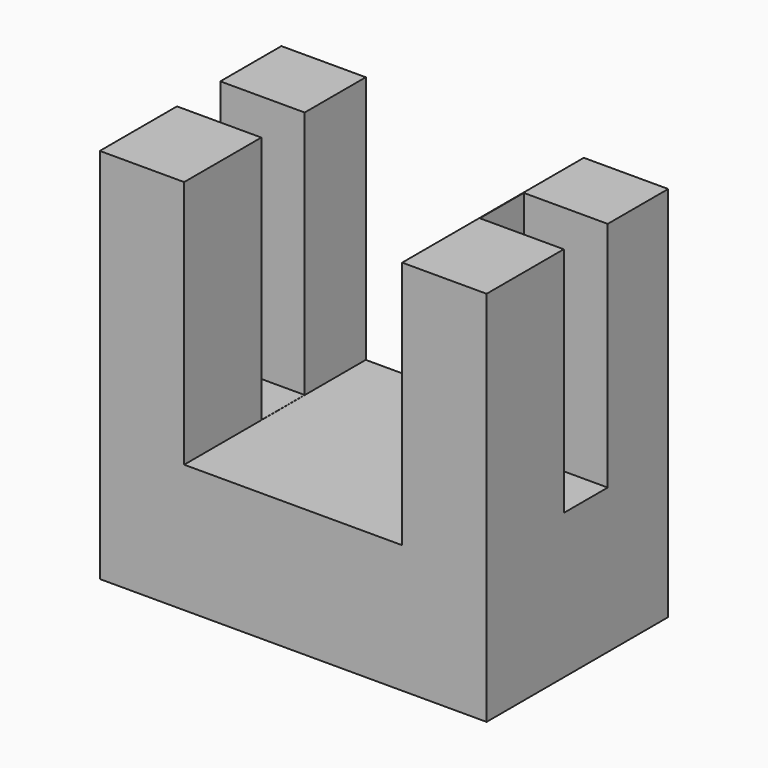
from build123d import *

# Parameters (mm, degrees)
F1_DEPTH = 33.782
F2_DEPTH = 1.016
F3_W     = 12.5559801236
F3_H     = 8.0651557073
F4_DEPTH = 37.0078
F3_W_2   = 12.5338770449
F3_H_2   = 8.1778438762
F5_DEPTH = 34.544


with BuildPart() as f1:
    # F0 (on Front) → F1 (new body)
    with BuildSketch(Plane.XZ):
        Polygon((0, 56.0894832015), (0, 0), (56.5477348864, 0), (56.5477348864, 56.0894832015), (44.99989748, 56.0894832015), (44.99989748, 19.0630927682), (12.5559801236, 19.0630927682), (12.5559801236, 56.0894832015), align=None)
    extrude(amount=F1_DEPTH)

    # F2 (add): a face of the model
    f2_faces = [f1.faces().sort_by_distance(p)[0] for p in [
        (56.5477348864, -16.891, 28.0447416008),
    ]]
    extrude(f2_faces, amount=F2_DEPTH)

    # F3 (on face) → F4 (cut)
    with BuildSketch(Plane.XY.offset(56.0894832015)):
        with Locations((6.2779900618, -15.3971132822)):
            Rectangle(F3_W, F3_H)
    extrude(amount=-F4_DEPTH, mode=Mode.SUBTRACT)

    # F3 (on face) → F5 (cut)
    with BuildSketch(Plane.XY.offset(56.0894832015)):
        with Locations((6.2779900618, -15.3971132822)):
            Rectangle(F3_W, F3_H)
        with Locations((51.3402279466, -15.3407691978)):
            Rectangle(F3_W_2, F3_H_2)
    extrude(amount=-F5_DEPTH, mode=Mode.SUBTRACT)


solid = f1.part
